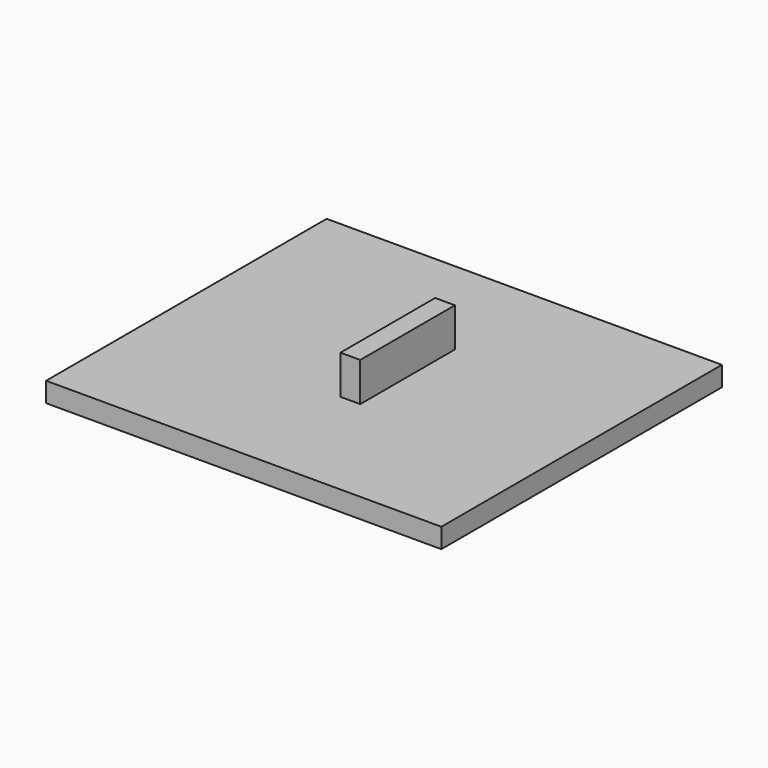
from build123d import *

# Parameters (mm, degrees)
F0_W     = 508
F0_H     = 450.706772
F1_DEPTH = 25.4
F2_W     = 152.116783
F2_H     = 50.022224
F3_DEPTH = 25.4


with BuildPart() as f1:
    # F0 (on Top) → F1 (new body)
    with BuildSketch(Plane.XY):
        with Locations((1.17225, -7.992605)):
            Rectangle(F0_W, F0_H)
    extrude(amount=F1_DEPTH)


with BuildPart() as f3:
    # F2 (on Right) → F3 (new body)
    with BuildSketch(Plane.YZ):
        with Locations((-0.410016, 50.637248)):
            Rectangle(F2_W, F2_H)
    extrude(amount=F3_DEPTH)


solid = Compound([f1.part, f3.part])
